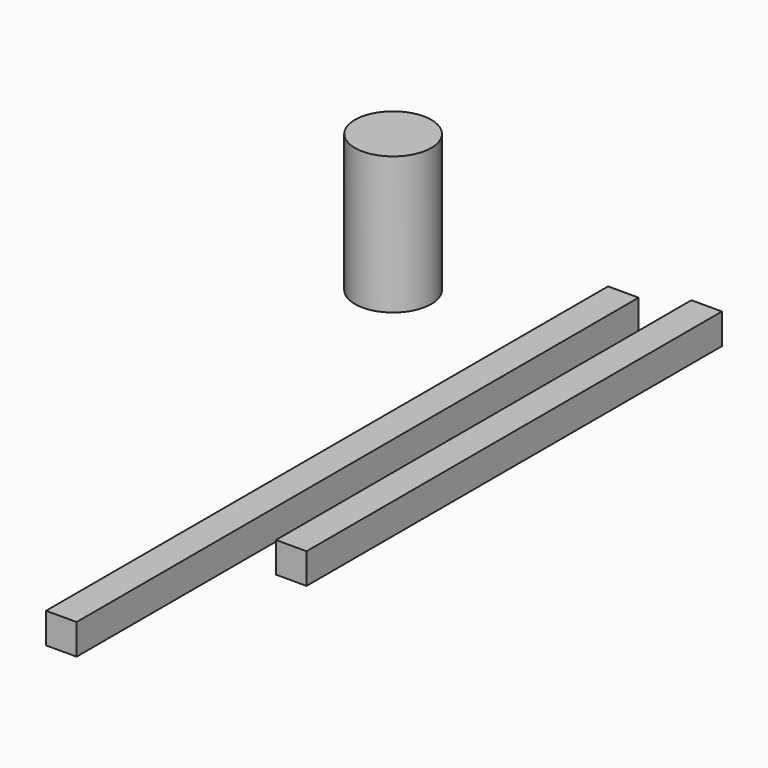
from build123d import *

# Parameters (mm, degrees)
F0_W     = 25.4
F0_H     = 25.4
F1_DEPTH = 584.2
F2_W     = 25.4
F2_H     = 25.4
F3_DEPTH = 431.8
F4_R     = 31.75
F5_DEPTH = 114.3


with BuildPart() as f1:
    # F0 (on Front) → F1 (new body)
    with BuildSketch(Plane.XZ):
        with Locations((-40.909534, 34.247813)):
            Rectangle(F0_W, F0_H)
    extrude(amount=F1_DEPTH)


with BuildPart() as f3:
    # F2 (on Front) → F3 (new body)
    with BuildSketch(Plane.XZ):
        with Locations((28.369295, 46.632254)):
            Rectangle(F2_W, F2_H)
    extrude(amount=F3_DEPTH)


with BuildPart() as f5:
    # F4 (on Top) → F5 (new body)
    with BuildSketch(Plane.XY):
        with Locations((-215.758383, -20.781416)):
            Circle(F4_R)
    extrude(amount=F5_DEPTH)


solid = Compound([f1.part, f3.part, f5.part])
